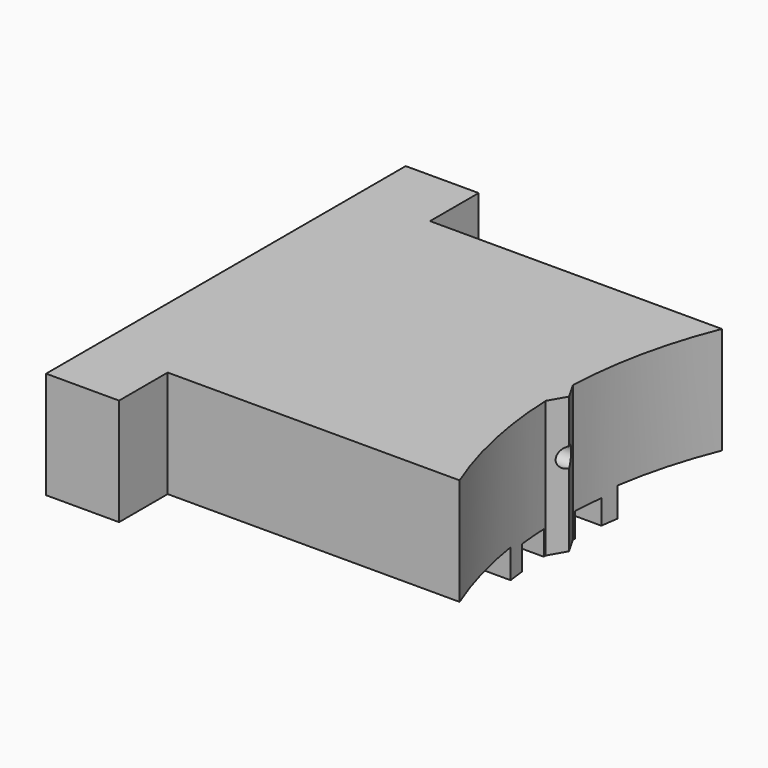
from build123d import *

# Parameters (mm, degrees)
F1_DEPTH = 19.05
F2_W     = 3.81
F2_H     = 3.175
F3_DEPTH = 5.588
F5_DEPTH = 7.113
F6_R     = 0.508
F7_DEPTH = 19.051


with BuildPart() as f1:
    # F0 (on Right) → F1 (new body)
    with BuildSketch(Plane.YZ):
        Polygon((-1.016, 1.27), (-1.016, 0), (1.016, 0), (1.016, 1.27), (2.5908, 1.27), (2.5908, 0), (3.4798, 0), (3.4798, 1.524), (8.5598, 1.524), (8.5598, 7.112), (-8.5598, 7.112), (-8.5598, 1.524), (-3.4798, 1.524), (-3.4798, 0), (-2.5908, 0), (-2.5908, 1.27), align=None)
    extrude(amount=-F1_DEPTH)

    # F2 (on face) → F3 (join, through all)
    with BuildSketch(Plane.XY.offset(7.112)):
        with Locations((-17.145, 10.1473)):
            Rectangle(F2_W, F2_H)
        with Locations((-17.145, -10.1473)):
            Rectangle(F2_W, F2_H)
    extrude(amount=-F3_DEPTH)

    # F4 (on face) → F5 (cut, through all)
    with BuildSketch(Plane.XY.offset(7.112)):
        with BuildLine():
            Line((0, -8.5598), (0, 8.5598))
            ThreePointArc((0, 8.5598), (-1.154422, 4.79553), (-1.645787, 0.889))
            Line((-1.645787, 0.889), (-1.137787, 0))
            Line((-1.137787, 0), (-1.645787, -0.889))
            ThreePointArc((-1.645787, -0.889), (-1.154422, -4.79553), (0, -8.5598))
        make_face()
    extrude(amount=-F5_DEPTH, mode=Mode.SUBTRACT)

    # F6 (on Right) → F7 (cut, through all)
    with BuildSketch(Plane.YZ):
        with Locations((0, 4.318)):
            Circle(F6_R)
    extrude(amount=-F7_DEPTH, mode=Mode.SUBTRACT)


solid = f1.part
